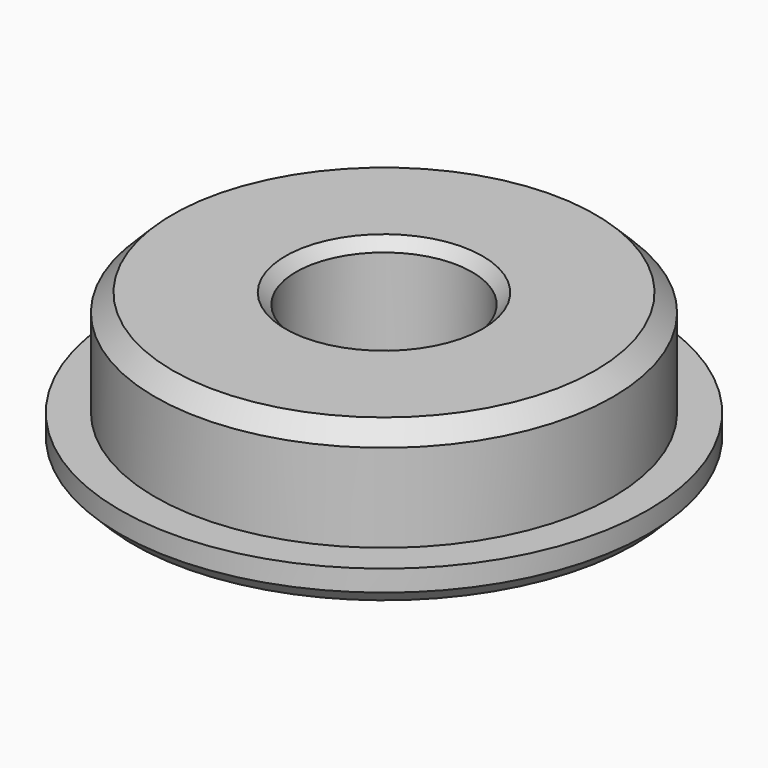
from build123d import *

# Parameters (mm, degrees)
F2_SIZE = 0.5
F3_SIZE = 0.4
F4_SIZE = 0.3


with BuildPart() as f1:
    # F0 (on Front) → F1 (revolve)
    with BuildSketch(Plane.XZ):
        Polygon((2.5, 0), (7.5, 0), (7.5, 1), (6.5, 1), (6.5, 4), (2.5, 4), align=None)
    revolve(axis=Axis((0, 0, 10.44), (0, 0, 1)))

    # F2
    f2_edges = [f1.edges().sort_by_distance(p)[0] for p in [
        (-6.5, 0, 4),
    ]]
    chamfer(f2_edges, length=F2_SIZE)

    # F3
    f3_edges = [f1.edges().sort_by_distance(p)[0] for p in [
        (-7.5, 0, 0),
    ]]
    chamfer(f3_edges, length=F3_SIZE)

    # F4
    f4_edges = [f1.edges().sort_by_distance(p)[0] for p in [
        (-2.5, 0, 0),
        (-2.5, 0, 4),
    ]]
    chamfer(f4_edges, length=F4_SIZE)


solid = f1.part
